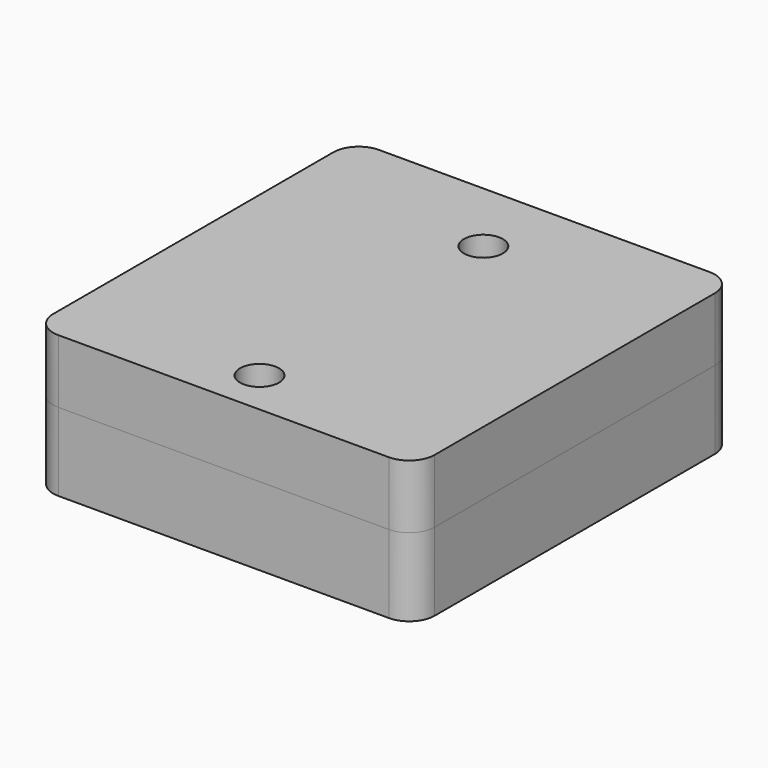
from build123d import *

# Parameters (mm, degrees)
SKETCH001_W     = 45
SKETCH001_H     = 47.3
PAD_DEPTH       = 9.2
SKETCH002_W     = 39
SKETCH002_H     = 23
POCKET_DEPTH    = 2
SKETCH003_R     = 1.65
POCKET001_DEPTH = 9.201
POCKET002_DEPTH = 5.2
SKETCH005_W     = 8
SKETCH005_H     = 9
SKETCH005_H_2   = 12
POCKET003_DEPTH = 2.001
SKETCH006_R     = 3
POCKET004_DEPTH = 5
SKETCH007_W     = 11.325413
SKETCH007_H     = 8.270186
SKETCH007_W_2   = 9.060331
SKETCH007_H_2   = 7.532717
PAD001_DEPTH    = 0.2
FILLET_R        = 3
FILLET001_R     = 1
FILLET002_R     = 1
SKETCH008_W     = 8
SKETCH008_H     = 1.5
SKETCH009_W     = 8
SKETCH009_H     = 5.341081
SKETCH010_W     = 8
SKETCH010_H     = 1.5
SKETCH011_W     = 8
SKETCH011_H     = 1.5
SKETCH012_W     = 8
SKETCH012_H     = 5.421419
SKETCH013_W     = 8
SKETCH013_H     = 1.5
PAD002_DEPTH    = 7.5
SKETCH015_R     = 2.3
POCKET005_DEPTH = 6.3
SKETCH016_R     = 1.65
POCKET006_DEPTH = 1
POCKET007_DEPTH = 2.5
SKETCH018_W     = 8
SKETCH018_H     = 1.5
POCKET008_DEPTH = 14.001
PAD003_DEPTH    = 8
PAD004_DEPTH    = 8


with BuildPart() as obj1:
    # Sketch001 → Pad (new body)
    with BuildSketch(Plane.XY):
        with Locations((0, 1.85)):
            Rectangle(SKETCH001_W, SKETCH001_H)
    extrude(amount=PAD_DEPTH)

    # Sketch002 (on Face6 of Pad) → Pocket (cut)
    with BuildSketch(Plane.XY.offset(9.2)):
        Rectangle(SKETCH002_W, SKETCH002_H)
    extrude(amount=-POCKET_DEPTH, mode=Mode.SUBTRACT)

    # Sketch003 (on Face5 of Pocket) → Pocket001 (cut, through all)
    with BuildSketch(Plane.XY.offset(9.2)):
        with Locations((0, 16.5)):
            Circle(SKETCH003_R)
        with Locations((0, -16.5)):
            Circle(SKETCH003_R)
    extrude(amount=-POCKET001_DEPTH, mode=Mode.SUBTRACT)

    # Sketch004 (on Face13 of Pocket001) → Pocket002 (cut)
    with BuildSketch(Plane.XY.offset(7.2)):
        Polygon((-18.5, 6.5), (-14.5, 10.5), (11.5, 10.5), (18.5, 5.5), (18.5, -5.5), (11.5, -10.5), (-14.5, -10.5), (-18.5, -6.5), align=None)
    extrude(amount=-POCKET002_DEPTH, mode=Mode.SUBTRACT)

    # Sketch005 (on Face22 of Pocket002) → Pocket003 (cut, through all)
    with BuildSketch(Plane.XY.offset(2)):
        with Locations((12.5, -1)):
            Rectangle(SKETCH005_W, SKETCH005_H)
        with Locations((-12.5, -2.4)):
            Rectangle(SKETCH005_W, SKETCH005_H_2)
    extrude(amount=-POCKET003_DEPTH, mode=Mode.SUBTRACT)

    # Sketch006 (on Face4 of Pocket003) → Pocket004 (cut)
    with BuildSketch(Plane(origin=(0, 0, 0), x_dir=(1, 0, 0), z_dir=(0, 0, -1))):
        with Locations((0, 16.5)):
            Circle(SKETCH006_R)
        with Locations((0, -16.5)):
            Circle(SKETCH006_R)
    extrude(amount=-POCKET004_DEPTH, mode=Mode.SUBTRACT)

    # Sketch007 (on Face25 of Pocket004) → Pad001 (join)
    with BuildSketch(Plane(origin=(0, 0, 5), x_dir=(1, 0, 0), z_dir=(0, 0, -1))):
        with Locations((0.619854, 16.600148)):
            Rectangle(SKETCH007_W, SKETCH007_H)
        with Locations((-1.19748, -16.743977)):
            Rectangle(SKETCH007_W_2, SKETCH007_H_2)
    extrude(amount=PAD001_DEPTH)

    # Fillet
    fillet_edges = [obj1.edges().sort_by_distance(p)[0] for p in [
        (22.5, -21.8, 4.6),
        (22.5, 25.5, 4.6),
        (-22.5, 25.5, 4.6),
        (-22.5, -21.8, 4.6),
    ]]
    fillet(fillet_edges, radius=FILLET_R)

    # Fillet001
    fillet001_edges = [obj1.edges().sort_by_distance(p)[0] for p in [
        (16.5, 3.5, 1),
        (16.5, -5.5, 1),
        (8.5, -5.5, 1),
        (8.5, 3.5, 1),
    ]]
    fillet(fillet001_edges, radius=FILLET001_R)

    # Fillet002
    fillet002_edges = [obj1.edges().sort_by_distance(p)[0] for p in [
        (-8.5, 3.6, 1),
        (-8.5, -8.4, 1),
        (-16.5, -8.4, 1),
        (-16.5, 3.6, 1),
    ]]
    fillet(fillet002_edges, radius=FILLET002_R)

    # Sketch008 (on Face43 of Fillet002) → SubtractiveLoft section 0
    with BuildSketch(Plane.XZ.offset(-11.5)):
        with Locations((14.5, 9.95)):
            Rectangle(SKETCH008_W, SKETCH008_H)
    # Sketch009 (on DatumPlane) → SubtractiveLoft section 1
    with BuildSketch(Plane(origin=(0, 18.5, 24), x_dir=(1, 0, 0), z_dir=(0, -1, 0))):
        with Locations((14.5, -16.050878)):
            Rectangle(SKETCH009_W, SKETCH009_H)
    # Sketch010 (on Face18 of Fillet002) → SubtractiveLoft section 2
    with BuildSketch(Plane(origin=(0, 25.5, 0), x_dir=(-1, 0, 0), z_dir=(0, 1, 0))):
        with Locations((-14.5, 9.95)):
            Rectangle(SKETCH010_W, SKETCH010_H)
    loft(mode=Mode.SUBTRACT)

    # Sketch011 (on Face42 of SubtractiveLoft) → SubtractiveLoft001 section 0
    with BuildSketch(Plane.XZ.offset(-11.5)):
        with Locations((-10.5, 9.95)):
            Rectangle(SKETCH011_W, SKETCH011_H)
    # Sketch012 (on DatumPlane) → SubtractiveLoft001 section 1
    with BuildSketch(Plane(origin=(0, 18.5, 24), x_dir=(1, 0, 0), z_dir=(0, -1, 0))):
        with Locations((-10.5, -16.01071)):
            Rectangle(SKETCH012_W, SKETCH012_H)
    # Sketch013 (on Face18 of SubtractiveLoft) → SubtractiveLoft001 section 2
    with BuildSketch(Plane(origin=(0, 25.5, 0), x_dir=(-1, 0, 0), z_dir=(0, 1, 0))):
        with Locations((10.5, 9.95)):
            Rectangle(SKETCH013_W, SKETCH013_H)
    loft(mode=Mode.SUBTRACT)


with BuildPart() as obj2:
    # Sketch014 → Pad002 (new body)
    with BuildSketch(Plane.XY.offset(9.2)):
        with BuildLine():
            ThreePointArc((-19.5, 25.5), (-21.62132, 24.62132), (-22.5, 22.5))
            Line((-22.5, -18.8), (-22.5, 22.5))
            ThreePointArc((-22.5, -18.8), (-21.62132, -20.92132), (-19.5, -21.8))
            Line((19.5, -21.8), (-19.5, -21.8))
            ThreePointArc((19.5, -21.8), (21.62132, -20.92132), (22.5, -18.8))
            Line((22.5, 22.5), (22.5, -18.8))
            ThreePointArc((22.5, 22.5), (21.62132, 24.62132), (19.5, 25.5))
            Line((-19.5, 25.5), (19.5, 25.5))
        make_face()
    extrude(amount=PAD002_DEPTH)

    # Sketch015 (on Face10 of Pad002) → Pocket005 (cut)
    with BuildSketch(Plane.XY.offset(16.7)):
        with Locations((0, 16.5)):
            Circle(SKETCH015_R)
        with Locations((0, -16.5)):
            Circle(SKETCH015_R)
    extrude(amount=-POCKET005_DEPTH, mode=Mode.SUBTRACT)

    # Sketch016 (on Face14 of Pocket005) → Pocket006 (cut)
    with BuildSketch(Plane.XY.offset(10.2)):
        with Locations((0, 16.5)):
            Circle(SKETCH016_R)
        with Locations((0, -16.5)):
            Circle(SKETCH016_R)
    extrude(amount=-POCKET006_DEPTH, mode=Mode.SUBTRACT)

    # Sketch017 (on Face4 of Pocket006) → Pocket007 (cut)
    with BuildSketch(Plane(origin=(0, 0, 9.2), x_dir=(1, 0, 0), z_dir=(0, 0, -1))):
        Polygon((-15.5, -7.505032), (-15.5, 11.388588), (13.002408, 11.388588), (19.680809, 4.948578), (19.680809, -9.168692), (18.5, -11.5), (5.5, -11.5), (5.5, -6.5), (2.5, -6.5), (2.390748, -11.5), (-14.558839, -11.5), align=None)
    extrude(amount=-POCKET007_DEPTH, mode=Mode.SUBTRACT)

    # Sketch018 (on Face22 of Pocket007) → Pocket008 (cut, through all)
    with BuildSketch(Plane.XZ.offset(-11.5)):
        with Locations((-10.5, 9.95)):
            Rectangle(SKETCH018_W, SKETCH018_H)
        with Locations((14.5, 9.95)):
            Rectangle(SKETCH018_W, SKETCH018_H)
    extrude(amount=-POCKET008_DEPTH, mode=Mode.SUBTRACT)

    # Sketch019 (on Face12 of Pocket008) → Pad003 (join)
    with BuildSketch(Plane(origin=(18.5, 0, 0), x_dir=(0, -1, 0), z_dir=(-1, 0, 0))):
        with BuildLine():
            Line((-25.5, 10.7), (-11.5, 10.7))
            add(Edge.make_bspline(
                [(-25.5, 10.7), (-18.54731, 2.726345), (-11.5, 10.7)],
                knots=[0, 0, 0, 1, 1, 1], degree=2))
        make_face()
    extrude(amount=PAD003_DEPTH)

    # Sketch020 (on Face8 of Pad003) → Pad004 (join)
    with BuildSketch(Plane(origin=(-6.5, 0, 0), x_dir=(0, -1, 0), z_dir=(-1, 0, 0))):
        with BuildLine():
            Line((-25.5, 10.7), (-11.5, 10.7))
            add(Edge.make_bspline(
                [(-25.5, 10.7), (-18.560717, 2.697259), (-11.5, 10.7)],
                knots=[0, 0, 0, 1, 1, 1], degree=2))
        make_face()
    extrude(amount=PAD004_DEPTH)


solid = Compound([obj1.part, obj2.part])
